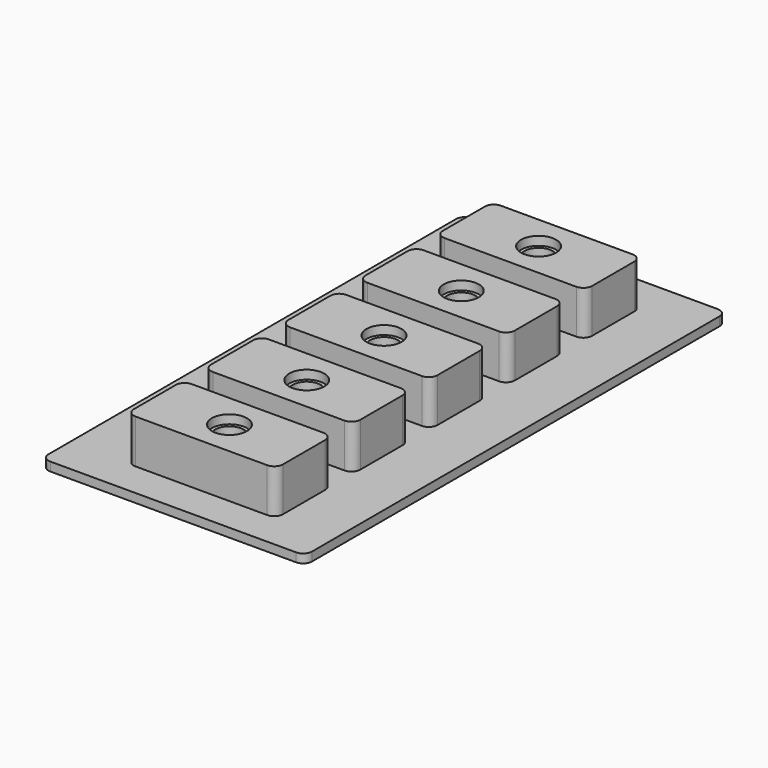
from build123d import *

# Parameters (mm, degrees)
F0_W     = 30
F0_H     = 60
F1_DEPTH = 1
F2_W     = 17
F2_H     = 8
F3_DEPTH = 5
F4_R     = 2
F5_DEPTH = 1
F6_R     = 1
F7_R     = 1.6
F8_DEPTH = 3


with BuildPart() as f1:
    # F0 (on Top) → F1 (new body)
    with BuildSketch(Plane.XY):
        Rectangle(F0_W, F0_H)
    extrude(amount=-F1_DEPTH)

    # F2 (on Top) → F3 (join)
    with BuildSketch(Plane.XY):
        Rectangle(F2_W, F2_H)
        with Locations((0, -11)):
            Rectangle(F2_W, F2_H)
        with Locations((0, 11)):
            Rectangle(F2_W, F2_H)
        with Locations((0, -22)):
            Rectangle(F2_W, F2_H)
        with Locations((0, 22)):
            Rectangle(F2_W, F2_H)
    extrude(amount=F3_DEPTH)

    # F4 (on face) → F5 (cut)
    with BuildSketch(Plane.XY.offset(5)):
        Circle(F4_R)
        with Locations((0, 11)):
            Circle(F4_R)
        with Locations((0, 22)):
            Circle(F4_R)
        with Locations((0, -11)):
            Circle(F4_R)
        with Locations((0, -22)):
            Circle(F4_R)
    extrude(amount=-F5_DEPTH, mode=Mode.SUBTRACT)

    # F6
    f6_edges = [f1.edges().sort_by_distance(p)[0] for p in [
        (-8.5, 4, 2.5),
        (8.5, 4, 2.5),
        (8.5, -4, 2.5),
        (-8.5, -4, 2.5),
        (-15, 30, -0.5),
        (15, 30, -0.5),
        (15, -30, -0.5),
        (-15, -30, -0.5),
        (-8.5, -26, 2.5),
        (-8.5, -15, 2.5),
        (-8.5, -7, 2.5),
        (-8.5, 7, 2.5),
        (-8.5, 15, 2.5),
        (-8.5, 18, 2.5),
        (-8.5, 26, 2.5),
        (-8.5, -18, 2.5),
        (8.5, -26, 2.5),
        (8.5, -18, 2.5),
        (8.5, -15, 2.5),
        (8.5, -7, 2.5),
        (8.5, 7, 2.5),
        (8.5, 15, 2.5),
        (8.5, 18, 2.5),
        (8.5, 26, 2.5),
    ]]
    fillet(f6_edges, radius=F6_R)

    # F7 (on face) → F8 (cut)
    with BuildSketch(Plane.XY.offset(4)):
        Circle(F7_R)
        with Locations((0, -11)):
            Circle(F7_R)
        with Locations((0, -22)):
            Circle(F7_R)
        with Locations((0, 11)):
            Circle(F7_R)
        with Locations((0, 22)):
            Circle(F7_R)
    extrude(amount=-F8_DEPTH, mode=Mode.SUBTRACT)


solid = f1.part
